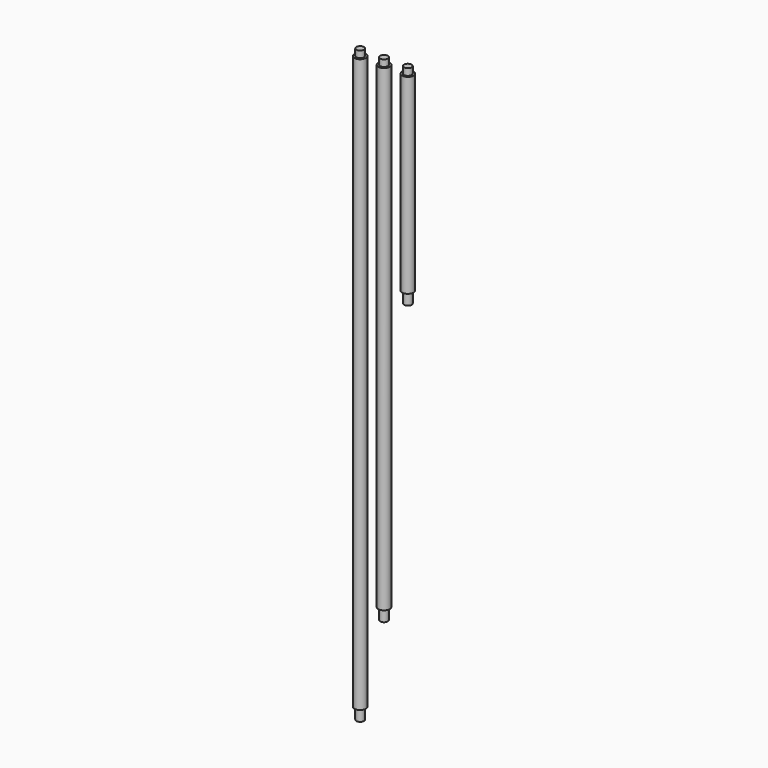
from build123d import *

# Parameters (mm, degrees)
F5_R      = 6
F5_R_2    = 4
F6_DEPTH  = 600
F7_DEPTH  = 500
F8_DEPTH  = 200
F9_DEPTH  = 7
F10_START = -200
F10_DEPTH = 12
F11_START = -500
F11_DEPTH = 12
F12_START = -600
F12_DEPTH = 12


with BuildPart() as f6:
    # F5 (on Top) → F6 (new body)
    with BuildSketch(Plane.XY):
        with Locations((-25, 0)):
            Circle(F5_R)
        with Locations((-25, 0)):
            Circle(F5_R_2, mode=Mode.SUBTRACT)
        with Locations((-25, 0)):
            Circle(F5_R_2)
    extrude(amount=-F6_DEPTH)

    # F5 (on Top) → F9 (join)
    with BuildSketch(Plane.XY):
        with Locations((-25, 0)):
            Circle(F5_R_2)
    extrude(amount=F9_DEPTH)

    # F5 (on Top) → F10, piece 3 (join)
    with BuildSketch(Plane.XY.offset(F10_START)):
        with Locations((-25, 0)):
            Circle(F5_R)
        with Locations((-25, 0)):
            Circle(F5_R_2, mode=Mode.SUBTRACT)
    extrude(amount=-F10_DEPTH)

    # F5 (on Top) → F12 (join)
    with BuildSketch(Plane.XY.offset(F12_START)):
        with Locations((-25, 0)):
            Circle(F5_R_2)
    extrude(amount=-F12_DEPTH)


with BuildPart() as f7:
    # F5 (on Top) → F7 (new body)
    with BuildSketch(Plane.XY):
        Circle(F5_R)
        Circle(F5_R_2, mode=Mode.SUBTRACT)
        Circle(F5_R_2)
    extrude(amount=-F7_DEPTH)

    # F5 (on Top) → F9, piece 2 (join)
    with BuildSketch(Plane.XY):
        Circle(F5_R_2)
    extrude(amount=F9_DEPTH)

    # F5 (on Top) → F10, piece 2 (join)
    with BuildSketch(Plane.XY.offset(F10_START)):
        Circle(F5_R)
        Circle(F5_R_2, mode=Mode.SUBTRACT)
    extrude(amount=-F10_DEPTH)

    # F5 (on Top) → F11 (join)
    with BuildSketch(Plane.XY.offset(F11_START)):
        Circle(F5_R_2)
    extrude(amount=-F11_DEPTH)


with BuildPart() as f8:
    # F5 (on Top) → F8 (new body)
    with BuildSketch(Plane.XY):
        with Locations((25, 0)):
            Circle(F5_R)
        with Locations((25, 0)):
            Circle(F5_R_2, mode=Mode.SUBTRACT)
        with Locations((25, 0)):
            Circle(F5_R_2)
    extrude(amount=-F8_DEPTH)

    # F5 (on Top) → F9, piece 3 (join)
    with BuildSketch(Plane.XY):
        with Locations((25, 0)):
            Circle(F5_R_2)
    extrude(amount=F9_DEPTH)

    # F5 (on Top) → F10 (join)
    with BuildSketch(Plane.XY.offset(F10_START)):
        with Locations((25, 0)):
            Circle(F5_R_2)
    extrude(amount=-F10_DEPTH)


solid = Compound([f6.part, f7.part, f8.part])
